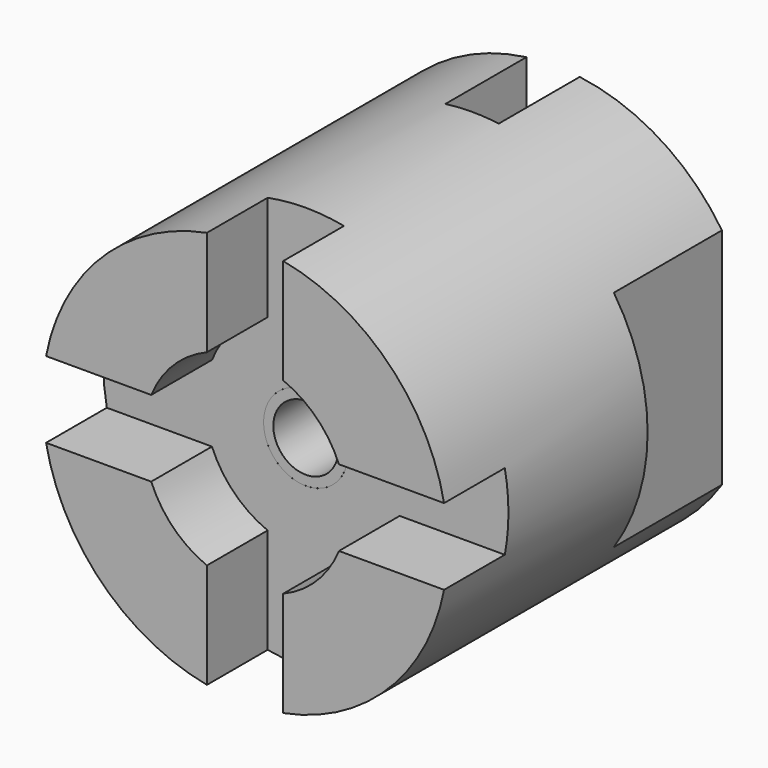
from build123d import *

# Parameters (mm, degrees)
F3_D     = 15.875
F5_DEPTH = 14.2748
F7_DEPTH = 25.4
F9_DEPTH = 19.05


with BuildPart() as f1:
    # F0 (on Right) → F1 (revolve)
    with BuildSketch(Plane.YZ):
        Polygon((0, 38.1), (0, 19.05), (14.2748, 19.05), (14.2748, 0), (46.7868, 0), (46.7868, 19.3167), (72.39, 19.3167), (72.39, 38.1), align=None)
    revolve(axis=Axis((0, 30.5308, 0), (0, -1, 0)))

    # F3 (through all)
    with Locations(Plane.XZ.offset(-14.2748)):
        with Locations((0, 0)):
            Hole(F3_D / 2)

    # F4 (on face) → F5 (cut, through all)
    with BuildSketch(Plane.XZ):
        with BuildLine():
            Line((-7.1755, 37.418206795), (-7.1755, 17.6469459043))
            ThreePointArc((-7.1755, 17.6469459043), (0, 19.05), (7.1755, 17.6469459043))
            Line((7.1755, 17.6469459043), (7.1755, 37.418206795))
            ThreePointArc((7.1755, 37.418206795), (0, 38.1), (-7.1755, 37.418206795))
        make_face()
        with BuildLine():
            ThreePointArc((-17.6469459043, -7.1755), (-19.05, 0), (-17.6469459043, 7.1755))
            Line((-17.6469459043, 7.1755), (-37.418206795, 7.1755))
            ThreePointArc((-37.418206795, 7.1755), (-38.1, 0), (-37.418206795, -7.1755))
            Line((-37.418206795, -7.1755), (-17.6469459043, -7.1755))
        make_face()
        with BuildLine():
            Line((37.418206795, 7.1755), (17.6469459043, 7.1755))
            ThreePointArc((17.6469459043, 7.1755), (18.6959463451, 3.6556928565), (19.05, 0))
            ThreePointArc((19.05, 0), (18.6959463451, -3.6556928565), (17.6469459043, -7.1755))
            Line((17.6469459043, -7.1755), (37.418206795, -7.1755))
            ThreePointArc((37.418206795, -7.1755), (37.9291687154, -3.603909066), (38.1, 0))
            ThreePointArc((38.1, 0), (37.9291687154, 3.603909066), (37.418206795, 7.1755))
        make_face()
        with BuildLine():
            ThreePointArc((7.1755, -17.6469459043), (0, -19.05), (-7.1755, -17.6469459043))
            Line((-7.1755, -17.6469459043), (-7.1755, -37.418206795))
            ThreePointArc((-7.1755, -37.418206795), (0, -38.1), (7.1755, -37.418206795))
            Line((7.1755, -37.418206795), (7.1755, -17.6469459043))
        make_face()
    extrude(amount=-F5_DEPTH, mode=Mode.SUBTRACT)

    # F6 (on face) → F7 (cut)
    with BuildSketch(Plane(origin=(0, 72.39, 0), x_dir=(-1, 0, 0), z_dir=(0, 1, 0))):
        with BuildLine():
            Line((-31.75, -21.0605674188), (-31.75, 21.0605674188))
            ThreePointArc((-31.75, 21.0605674188), (-38.1, 0), (-31.75, -21.0605674188))
        make_face()
        with BuildLine():
            ThreePointArc((38.1, 0), (36.4779728055, 10.9985226281), (31.75, 21.0605674188))
            Line((31.75, 21.0605674188), (31.75, -21.0605674188))
            ThreePointArc((31.75, -21.0605674188), (36.4779728055, -10.9985226281), (38.1, 0))
        make_face()
    extrude(amount=-F7_DEPTH, mode=Mode.SUBTRACT)

    # F8 (on face) → F9 (cut)
    with BuildSketch(Plane(origin=(0, 72.39, 0), x_dir=(-1, 0, 0), z_dir=(0, 1, 0))):
        with BuildLine():
            ThreePointArc((0, 38.1), (-2.5137270639, 38.0169853651), (-5.0165, 37.7683032151))
            Line((-5.0165, 37.7683032151), (-5.0165, 18.6539439969))
            ThreePointArc((-5.0165, 18.6539439969), (0, 19.3167), (5.0165, 18.6539439969))
            Line((5.0165, 18.6539439969), (5.0165, 37.7683032151))
            ThreePointArc((5.0165, 37.7683032151), (2.5137270639, 38.0169853651), (0, 38.1))
        make_face()
        with BuildLine():
            ThreePointArc((5.0165, -18.6539439969), (0, -19.3167), (-5.0165, -18.6539439969))
            Line((-5.0165, -18.6539439969), (-5.0165, -37.7683032151))
            ThreePointArc((-5.0165, -37.7683032151), (0, -38.1), (5.0165, -37.7683032151))
            Line((5.0165, -37.7683032151), (5.0165, -18.6539439969))
        make_face()
    extrude(amount=-F9_DEPTH, mode=Mode.SUBTRACT)


with BuildPart() as f11:
    # F10 (on Right) → F11 (revolve)
    with BuildSketch(Plane.YZ):
        Polygon((46.7868, 7.9375), (14.2748, 7.9375), (14.2748, 6.1087), (49.9618, 6.1087), (49.9618, 9.525), (46.7868, 9.525), align=None)
    revolve(axis=Axis((0, 25.5515109748, 0), (0, 1, 0)))


with BuildPart() as f13:
    # F12 (on Right) → F13 (revolve)
    with BuildSketch(Plane.YZ):
        Polygon((53.1368, 11.1125), (49.9618, 11.1125), (49.9618, 6.1087), (72.1868, 6.1087), (72.1868, 7.9375), (53.1368, 7.9375), align=None)
    revolve(axis=Axis((0, 65.3520311519, 0), (0, 1, 0)))


solid = Compound([f1.part, f11.part, f13.part])
